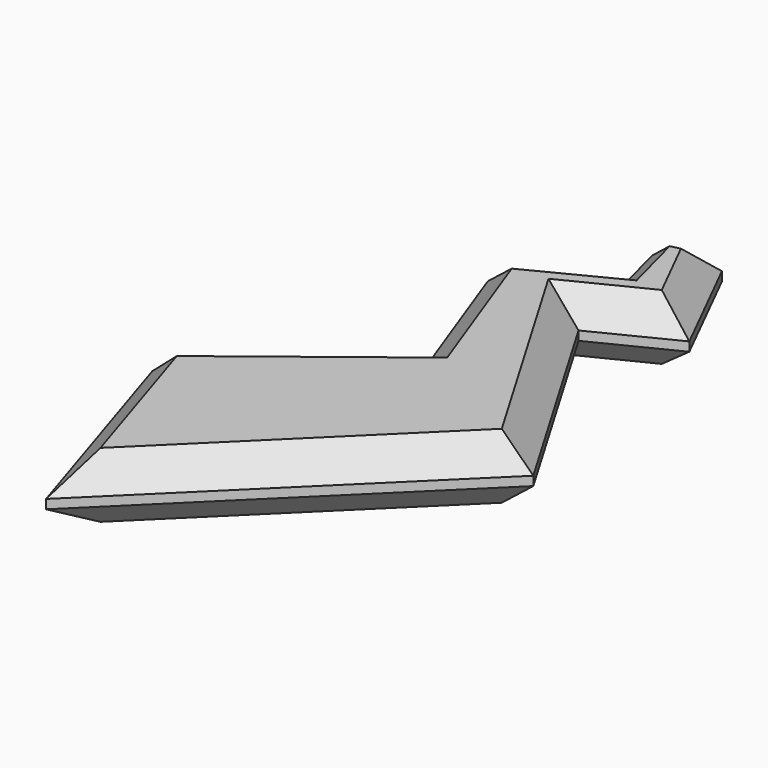
from build123d import *

# Parameters (mm, degrees)
F1_DEPTH = 2.54
F2_SIZE  = 1.0922
F3_SIZE  = 1.0922


with BuildPart() as f1:
    # F0 (on Top) → F1 (new body)
    with BuildSketch(Plane.XY):
        Polygon((3.7357374094, 2.0727487281), (1.6156566562, 6.3129104674), (-0.688809203, 5.7773781009), (0, 3.146545263), (-3.5388784017, 1.3378473232), (-1.3465175871, -4.636336118), (-7.8139826655, -9.6787661314), (-5.0735310651, -18.2837825269), (5.5594188161, -7.8152595088), (0.6475421183, 0.5286511673), align=None)
    extrude(amount=F1_DEPTH)

    # F2
    f2_edges = [f1.edges().sort_by_distance(p)[0] for p in [
        (3.10348, -3.643304, 2.54),
        (2.19164, 1.3007, 2.54),
        (2.675697, 4.19283, 2.54),
        (0.463424, 6.045144, 2.54),
        (-0.344405, 4.461962, 2.54),
        (-1.769439, 2.242196, 2.54),
        (-2.442698, -1.649244, 2.54),
        (-4.58025, -7.157551, 2.54),
        (-6.443757, -13.981274, 2.54),
        (0.242944, -13.049521, 2.54),
    ]]
    chamfer(f2_edges, length=F2_SIZE)

    # F3
    f3_edges = [f1.edges().sort_by_distance(p)[0] for p in [
        (3.10348, -3.643304, 0),
        (2.19164, 1.3007, 0),
        (2.675697, 4.19283, 0),
        (0.463424, 6.045144, 0),
        (-0.344405, 4.461962, 0),
        (-1.769439, 2.242196, 0),
        (-2.442698, -1.649244, 0),
        (-4.58025, -7.157551, 0),
        (-6.443757, -13.981274, 0),
        (0.242944, -13.049521, 0),
    ]]
    chamfer(f3_edges, length=F3_SIZE)


solid = f1.part
